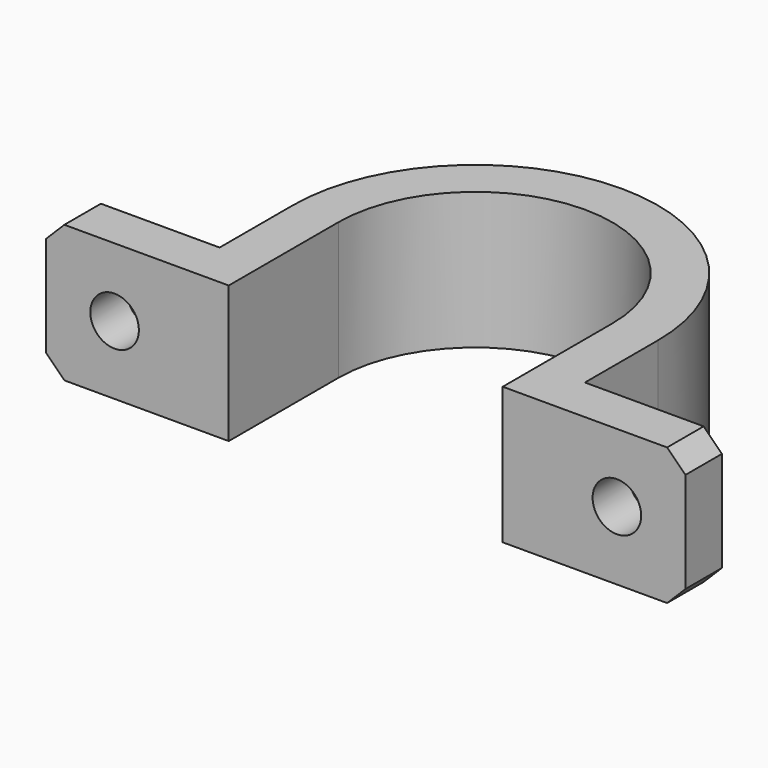
from build123d import *

# Parameters (mm, degrees)
PAD_DEPTH    = 19.05
SKETCH001_R  = 3.3782
HOLE_DEPTH   = 24.9936
CHAMFER_SIZE = 2.54


with BuildPart() as part:
    # Sketch → Pad (new body)
    with BuildSketch(Plane.XY):
        with BuildLine():
            ThreePointArc((19.05, 0), (0, 19.05), (-19.05, 0))
            Line((-19.05, 0), (-19.05, -19.05))
            Line((-19.05, -19.05), (-25.4, -19.05))
            Line((-44.45, -19.05), (-25.4, -19.05))
            Line((-44.45, -12.7), (-44.45, -19.05))
            Line((-25.4, -12.7), (-44.45, -12.7))
            Line((-25.4, -12.7), (-25.4, 0))
            ThreePointArc((25.4, 0), (0, 25.4), (-25.4, 0))
            Line((25.4, 0), (25.4, -12.7))
            Line((25.4, -12.7), (44.45, -12.7))
            Line((44.45, -12.7), (44.45, -19.05))
            Line((44.45, -19.05), (25.4, -19.05))
            Line((19.05, -19.05), (25.4, -19.05))
            Line((19.05, 0), (19.05, -19.05))
        make_face()
    extrude(amount=PAD_DEPTH)

    # Sketch001 → Hole (cut)
    with BuildSketch(Plane.XZ):
        with Locations((34.925, 9.525)):
            Circle(SKETCH001_R)
        with Locations((-34.925, 9.525)):
            Circle(SKETCH001_R)
    extrude(amount=HOLE_DEPTH, mode=Mode.SUBTRACT)

    # Chamfer
    chamfer_edges = [part.edges().sort_by_distance(p)[0] for p in [
        (-44.45, -15.875, 19.05),
        (-44.45, -15.875, 0),
        (44.45, -15.875, 0),
        (44.45, -15.875, 19.05),
    ]]
    chamfer(chamfer_edges, length=CHAMFER_SIZE)


solid = part.part
